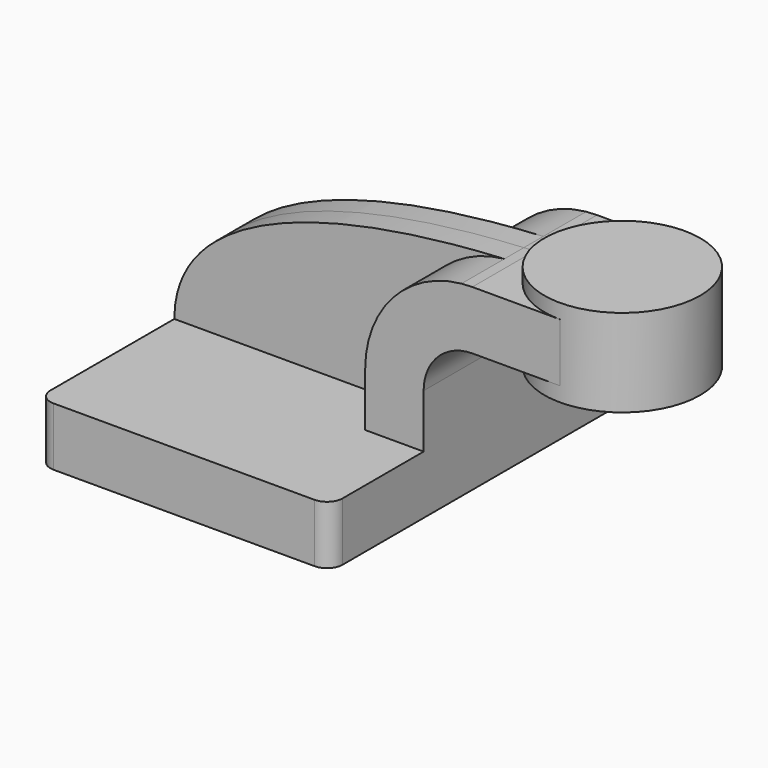
from build123d import *

# Parameters (mm, degrees)
F1_DEPTH = 63.5
F0_W     = 25.4
F0_H     = 19.05
F2_DEPTH = 25.4
F3_DEPTH = 7.9375
F5_R     = 5.08


with BuildPart() as f1:
    # F0 (on Front) → F1 (new body, symmetric)
    with BuildSketch(Plane.XZ):
        Polygon((-47.625, -9.525), (47.625, -9.525), (47.625, 9.525), (28.575, 9.525), (-47.625, 9.525), align=None)
    extrude(amount=F1_DEPTH, both=True)

    # F0 (on Front) → F2 (join, symmetric)
    with BuildSketch(Plane.XZ):
        with BuildLine():
            Line((28.575, 9.525), (47.625, 9.525))
            Line((47.625, 9.525), (47.625, 27.0002))
            ThreePointArc((47.625, 27.0002), (52.2746798487, 38.2255201513), (63.5, 42.8752))
            Line((63.5, 42.8752), (66.675, 42.8752))
            Line((66.675, 42.8752), (66.675, 61.9252))
            Line((66.675, 61.9252), (63.5, 61.9252))
            add(Edge.make_bspline(
                [(59.9690343526, 61.7462487912), (61.1403555506, 61.8105354715), (62.3174119824, 61.8701781939), (63.5, 61.9252)],
                knots=[120.571793121, 120.571793121, 120.571793121, 120.571793121, 122.8598656398, 122.8598656398, 122.8598656398, 122.8598656398], degree=3))
            ThreePointArc((59.9690343526, 61.7462487912), (37.5859632609, 50.4142625455), (28.575, 27.0002))
            Line((28.575, 27.0002), (28.575, 9.525))
        make_face()
        with Locations((79.375, 52.4002)):
            Rectangle(F0_W, F0_H)
    extrude(amount=F2_DEPTH, both=True)

    # F0 (on Front) → F3 (join, symmetric)
    with BuildSketch(Plane.XZ):
        with BuildLine():
            add(Edge.make_bspline(
                [(-47.625, 9.525), (-47.5524974329, 42.0754152334), (-1.7546636461, 58.3586112645), (59.9690343526, 61.7462487912)],
                knots=[0, 0, 0, 0, 120.571793121, 120.571793121, 120.571793121, 120.571793121], degree=3))
            Line((-47.625, 9.525), (28.575, 9.525))
            Line((28.575, 9.525), (28.575, 27.0002))
            ThreePointArc((28.575, 27.0002), (37.5859632609, 50.4142625455), (59.9690343526, 61.7462487912))
        make_face()
    extrude(amount=F3_DEPTH, both=True)

    # F5
    f5_edges = [f1.edges().sort_by_distance(p)[0] for p in [
        (-47.625, -63.5, 0),
        (47.625, -63.5, 0),
        (47.625, 63.5, 0),
        (-47.625, 63.5, 0),
    ]]
    fillet(f5_edges, radius=F5_R)


with BuildPart() as f4:
    # F0 (on Front) → F4 (revolve)
    with BuildSketch(Plane.XZ):
        Polygon((92.075, 61.9252), (92.075, 42.8752), (92.075, 38.1), (117.475, 38.1), (117.475, 66.675), (92.075, 66.675), align=None)
    revolve(axis=Axis((92.075, 0, 52.3875), (0, 0, 1)))


solid = Compound([f1.part, f4.part])
